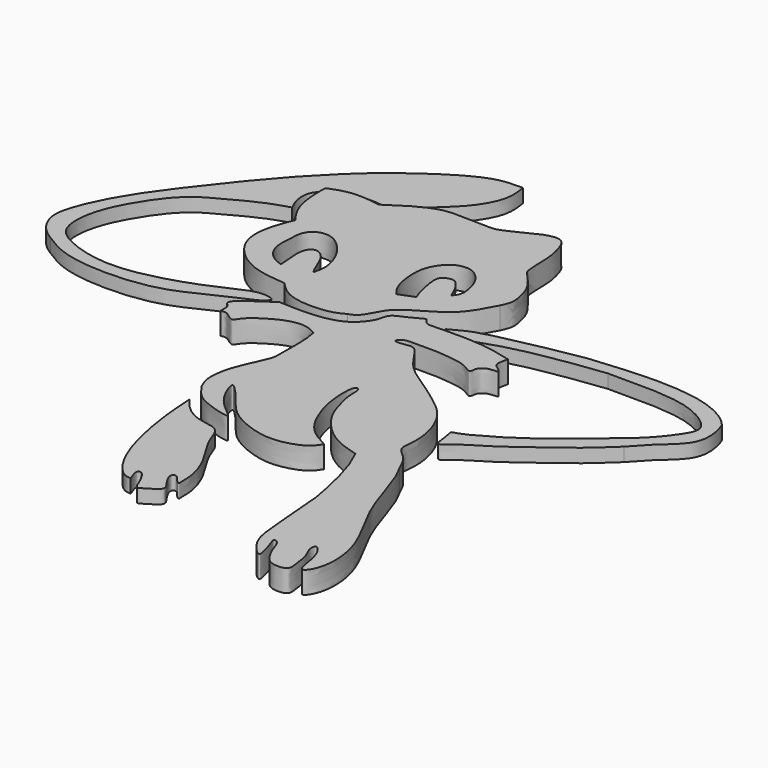
from build123d import *

# Parameters (mm, degrees)
F1_DEPTH = 5.334
F2_DEPTH = 3.302


with BuildPart() as f1:
    # F0 (on Top) → F1 (new body)
    with BuildSketch(Plane.XY):
        with BuildLine():
            add(Edge.make_bspline(
                [(-36.8846021593, 36.0807068646), (-37.3919205691, 36.745355779), (-38.573167318, 38.2929329101), (-40.5014475338, 42.4143572996), (-40.7107590613, 48.2182279222), (-40.6138391704, 49.4369952817), (-40.5808985233, 49.8512238264)],
                knots=[0, 0, 0, 0, 0.2194056509, 0.5108669562, 0.8337559114, 1, 1, 1, 1], degree=3))
            add(Edge.make_bspline(
                [(-22.3644245416, 14.6438442171), (-24.6713467296, 14.8439032159), (-29.1783533156, 15.2347561151), (-34.882181479, 17.9727219406), (-39.1312315637, 23.0647945356), (-39.4935763136, 28.8302862551), (-37.8267011281, 33.815991482), (-37.1553457104, 35.4298653868), (-36.8846021593, 36.0807068646)],
                knots=[0, 0, 0, 0, 0.1893684443, 0.3699668893, 0.5515158216, 0.7238806595, 0.8886468645, 1, 1, 1, 1], degree=3))
            add(Edge.make_bspline(
                [(-5.2082133479, 12.2014991939), (-6.1207744444, 11.7172463933), (-8.3286563669, 10.545628396), (-15.353587418, 10.2966075507), (-19.699613734, 11.8971410348), (-21.5102479887, 13.7634179409), (-22.3644245416, 14.6438442171)],
                knots=[0, 0, 0, 0, 0.2165971456, 0.5240426358, 0.775464526, 1, 1, 1, 1], degree=3))
            add(Edge.make_bspline(
                [(15.1303568855, 32.9696908593), (14.5352451306, 31.8316959723), (13.2486953483, 29.3715075085), (10.2455123386, 24.8910940387), (3.5467707647, 21.2909451139), (-0.1632139181, 18.6569829706), (-1.6228436975, 15.6766034686), (-3.1877963332, 12.9531999529), (-4.5795045255, 12.4354117454), (-5.2082133479, 12.2014991939)],
                knots=[0, 0, 0, 0, 0.1407144931, 0.3042053849, 0.4994170574, 0.6491627195, 0.7763538673, 0.8989671128, 1, 1, 1, 1], degree=3))
            add(Edge.make_bspline(
                [(-28.5498145968, 50.8658960462), (-27.3946017427, 51.6630685406), (-24.9466228795, 53.3523342114), (-20.0833499164, 56.0652919109), (-16.3542778469, 56.9634408184), (-12.2867311767, 56.8716252918), (-6.9153223537, 56.7342359886), (-4.3946916269, 56.665054576), (1.0627636823, 59.6982249817), (4.5886739884, 61.236413898), (8.2470343675, 61.4891197316), (9.8575595266, 56.0097175618), (10.1904654801, 52.4142595185), (10.0843781414, 47.0754303269), (11.5893851176, 45.8127835913), (14.8613176101, 41.8496715208), (15.5576528197, 39.0147495294), (16.4135900587, 35.7580508966), (15.5545549064, 33.8914382347), (15.1303568855, 32.9696908593)],
                knots=[0, 0, 0, 0, 0.0621112649, 0.1316182234, 0.188871196, 0.2491962953, 0.3167553376, 0.3643401957, 0.436758445, 0.4967888689, 0.546791506, 0.6123099758, 0.6728165948, 0.7378250462, 0.7790399568, 0.8445049968, 0.8965058511, 0.9488938107, 1, 1, 1, 1], degree=3))
            add(Edge.make_bspline(
                [(-40.5808985233, 49.8512238264), (-39.7577733728, 50.1889108848), (-38.0437485114, 50.8920895121), (-34.9342862767, 51.5058179945), (-31.3792002355, 51.3783823788), (-29.458277106, 51.0304457679), (-28.5498145968, 50.8658960462)],
                knots=[0, 0, 0, 0, 0.234957575, 0.4892611102, 0.7584561682, 1, 1, 1, 1], degree=3))
        make_face()
        with BuildLine():
            add(Edge.make_bspline(
                [(-27.7441535145, 20.2597975731), (-27.836523165, 21.3377254697), (-28.0205851584, 23.4856772729), (-28.2064858053, 26.7533419634), (-27.3095138698, 28.5803581568), (-25.8242693753, 29.158776732), (-23.9397520395, 27.8647529376), (-22.7818146955, 25.7716562911), (-21.7167721967, 22.9536226595), (-21.1669852724, 21.9621876443), (-20.9360662848, 21.5457696468)],
                knots=[0, 0, 0, 0, 0.1498442019, 0.2985896596, 0.4110847443, 0.5056814579, 0.6233821967, 0.7537217582, 0.89655934, 1, 1, 1, 1], degree=3))
            add(Edge.make_bspline(
                [(-20.9360662848, 21.5457696468), (-20.6845803928, 22.4517973521), (-20.1286034759, 24.4548142458), (-21.2599441765, 28.7542103146), (-23.5058865444, 32.3709839432), (-26.9334066004, 35.3160516517), (-30.5123126311, 35.2735079139), (-32.7990191763, 33.0795235548), (-32.9444978647, 29.4825750713), (-33.2245472294, 25.7467879432), (-31.8503260445, 22.5933797005), (-29.5656235756, 20.8892744088), (-28.312173584, 20.4560980688), (-27.7441535145, 20.2597975731)],
                knots=[0, 0, 0, 0, 0.0851228406, 0.1881868366, 0.292340602, 0.3959368999, 0.4853122137, 0.5684365665, 0.6615536453, 0.7584972412, 0.8490847261, 0.9316104312, 1, 1, 1, 1], degree=3))
        make_face(mode=Mode.SUBTRACT)
        with BuildLine():
            add(Edge.make_bspline(
                [(5.4089953192, 30.3651615977), (4.9974793972, 31.3635089709), (4.2164206085, 33.2583760916), (2.492858238, 35.4574563274), (1.1828097347, 35.7536675932), (-1.0889632523, 34.9032052933), (-1.0761434624, 32.5663825666), (-0.7105408655, 30.3909840554), (-0.0619549295, 27.5454399373), (0.4242136144, 26.3185378529), (0.6415589014, 25.7700420916)],
                knots=[0, 0, 0, 0, 0.1500445323, 0.2847850944, 0.377641595, 0.497182947, 0.616278328, 0.7433829902, 0.8852774448, 1, 1, 1, 1], degree=3))
            Line((0.6415589014, 25.7700420916), (-3.0919760466, 24.3340656161))
            add(Edge.make_bspline(
                [(-3.0919760466, 24.3340656161), (-3.6746172439, 25.0952157056), (-4.9790959932, 26.7993590469), (-5.9269204187, 31.3877090281), (-5.8129309399, 36.1864843136), (-3.2806174064, 39.831657957), (-1.0494876922, 41.0503171402), (2.1831388461, 41.2713590695), (5.273039036, 38.380179271), (6.3476776556, 34.9097936113), (6.6819460197, 32.0494739818), (5.8108081984, 30.8968227282), (5.4089953192, 30.3651615977)],
                knots=[0, 0, 0, 0, 0.0943242152, 0.2111830315, 0.3310976043, 0.4422336843, 0.5274260332, 0.6207101402, 0.729021317, 0.8337202238, 0.9233033465, 1, 1, 1, 1], degree=3))
        make_face(mode=Mode.SUBTRACT)
    extrude(amount=F1_DEPTH)


with BuildPart() as f1b:
    # F0 (on Top) → F1, piece 2 (new body)
    with BuildSketch(Plane.XY):
        with BuildLine():
            add(Edge.make_bspline(
                [(30.0683174282, 16.6960265487), (27.7743567444, 17.2982553033), (22.996366427, 18.5526112206), (14.1217566151, 18.5069548483), (10.9595550033, 18.4055071495), (8.914888562, 18.2892193751), (8.1286790312, 19.3965578852), (7.7262688428, 19.9633333832)],
                knots=[0, 0, 0, 0, 0.2687230853, 0.5597115543, 0.7341470669, 0.8639269499, 1, 1, 1, 1], degree=3))
            add(Edge.make_bspline(
                [(7.7262688428, 19.9633333832), (6.7843841918, 19.4219987594), (4.8626373132, 18.3175024471), (0.9491517041, 16.983214183), (0.9172062675, 14.0816922981), (-1.1563972414, 11.1645043961), (-4.2681909188, 8.7975654115), (-10.2481427233, 7.7101704983), (-15.7637806819, 7.8784264398), (-17.5742383687, 7.9638167156), (-18.2920843363, 7.9976739362)],
                knots=[0, 0, 0, 0, 0.1189762035, 0.2427496271, 0.3446266716, 0.463365679, 0.5892044553, 0.7483578638, 0.9002239632, 1, 1, 1, 1], degree=3))
            add(Edge.make_bspline(
                [(-18.2920843363, 7.9976739362), (-19.2081909322, 7.3508545619), (-21.220968544, 5.9297278487), (-26.2844384077, 2.5837754081), (-25.5818429798, 1.1641009834), (-24.788360107, 0.7943681377), (-24.7400624967, -0.7928668879), (-24.7462409395, -1.4706101124), (-24.7490536422, -1.7791490536)],
                knots=[0, 0, 0, 0, 0.2335516694, 0.5131363244, 0.6318283516, 0.7367278182, 0.8801467617, 1, 1, 1, 1], degree=3))
            add(Edge.make_bspline(
                [(-24.7490536422, -1.7791490536), (-24.2594300604, -1.6489843167), (-23.1371940302, -1.3506417469), (-20.7418558435, -3.9319628807), (-19.8396284785, -1.3153314822), (-15.2791573927, 1.747858691), (-12.0049756273, 3.1979621252), (-8.2035408147, 3.7607412239), (-6.3214470372, 2.7044753683), (-5.4122591391, 2.1942222957)],
                knots=[0, 0, 0, 0, 0.1027998361, 0.2356211674, 0.3469371625, 0.5398555958, 0.7001501422, 0.8551507554, 1, 1, 1, 1], degree=3))
            add(Edge.make_bspline(
                [(-5.4122591391, -11.4604206756), (-5.2622117063, -11.0833952824), (-4.8483954868, -10.0435959346), (-4.8531432648, -5.796717989), (-4.8905091249, -0.455510217), (-5.2613557919, 1.4278523975), (-5.4122591391, 2.1942222957)],
                knots=[0, 0, 0, 0, 0.16298087, 0.4494853805, 0.7759869344, 1, 1, 1, 1], degree=3))
            add(Edge.make_bspline(
                [(-5.4122591391, -11.4604206756), (-5.7180365241, -12.1910633261), (-6.4589745929, -13.9615047682), (-8.7341618296, -18.823732403), (-9.3339817846, -22.6702412315), (-9.3862087635, -25.4827799286), (-8.6161951623, -27.2256408895), (-8.2267019898, -28.1072258949)],
                knots=[0, 0, 0, 0, 0.1760181488, 0.4265146922, 0.6415927054, 0.8187081449, 1, 1, 1, 1], degree=3))
            add(Edge.make_bspline(
                [(-8.2267019898, -28.1072258949), (-7.6234509095, -28.9847780463), (-6.3158368471, -30.886970303), (-3.3578440432, -33.0385452557), (4.7605685311, -35.3009211391), (0.7062696421, -32.348079143), (-2.6369370543, -28.938166705), (-4.7745965374, -23.008879984), (-2.1692361288, -25.4214104232), (0.0596427785, -28.1204059957), (3.5703763797, -32.828689266), (9.4441591128, -35.6788887604), (15.6783436568, -37.2193911759), (22.840726257, -35.0789922839), (24.1300062291, -32.9878270093), (24.6503651142, -32.1438238025)],
                knots=[0, 0, 0, 0, 0.0644771481, 0.1397614166, 0.2278212025, 0.2838940026, 0.3731896446, 0.4478304981, 0.4963143315, 0.5679076052, 0.6548180235, 0.7466462144, 0.8393730298, 0.9351702711, 1, 1, 1, 1], degree=3))
            add(Edge.make_bspline(
                [(24.6503651142, -32.1438238025), (22.7874017729, -31.1547850766), (18.978892069, -29.1328646762), (15.7565133464, -22.5588668197), (14.3110475227, -17.0219112758), (14.2258983476, -9.955668629), (16.1051306441, -10.5144580218), (15.6702473707, -13.747750159), (17.0855807883, -18.568062254), (18.3355817835, -22.1596484216), (21.6146077655, -26.502386498), (26.1560860605, -29.9186464967), (29.8500456849, -30.9730548373), (31.7023843527, -31.501788646)],
                knots=[0, 0, 0, 0, 0.1044502141, 0.213530586, 0.3203453584, 0.4213187613, 0.4580269744, 0.5290816996, 0.6236498562, 0.7054940824, 0.8011178875, 0.9002704239, 1, 1, 1, 1], degree=3))
            add(Edge.make_bspline(
                [(31.7023843527, -31.501788646), (32.4317515175, -33.0339186757), (34.0418847304, -36.4162116639), (35.891222752, -44.0199699231), (36.7066142268, -48.1595329342), (36.9354538826, -49.5206387254), (37.0256751776, -50.0572621822)],
                knots=[0, 0, 0, 0, 0.2736015544, 0.6039961368, 0.8438732953, 1, 1, 1, 1], degree=3))
            add(Edge.make_bspline(
                [(37.0256751776, -50.0572621822), (37.2529570378, -52.2585996466), (37.7295250837, -56.874397374), (38.1744288141, -65.147375762), (39.0614282703, -71.473936135), (43.7073747885, -75.9926535392), (43.0041439625, -73.1870722683), (42.5863736095, -71.2442159702), (41.2192631142, -68.0900104475), (43.2122596535, -69.062811459), (43.8660534195, -72.1091856839), (46.0001837404, -75.8667367907), (48.2415322815, -76.7510536361), (51.5666329574, -76.464046498), (51.0718324014, -73.597450229), (50.7537782092, -69.9651897279), (49.0133489818, -67.3461961901), (49.5300726584, -65.1991280143), (51.3610203699, -67.2721869465), (52.3453968623, -70.4529473283), (52.995619021, -76.2204950553), (56.059449066, -71.996615036), (56.1941191956, -64.2541648711), (53.057015864, -56.2370554706), (47.5422537848, -47.2864849217), (44.2428025956, -35.181683009), (42.4634124655, -31.9627538165), (41.779063642, -30.7247620076)],
                knots=[0, 0, 0, 0, 0.0515181447, 0.1080240258, 0.1600193281, 0.200966199, 0.2242692528, 0.2561913518, 0.2869292175, 0.3071601688, 0.3426397052, 0.3829711635, 0.4133879878, 0.44506026, 0.4747807776, 0.5132716918, 0.5483859123, 0.5705941331, 0.5969574393, 0.6366393869, 0.6760617143, 0.7097084145, 0.7649651301, 0.8224062602, 0.8873011559, 0.9566563172, 1, 1, 1, 1], degree=3))
            add(Edge.make_bspline(
                [(41.779063642, -30.7247620076), (41.220519955, -29.4131194944), (40.1405083976, -26.8769005623), (36.3496730282, -24.6391556022), (37.9091307315, -19.6176807334), (35.5635143336, -10.6479929739), (30.5388392719, -5.8669855098), (23.9637593307, -1.3236326178), (17.1210038146, 2.9501551711), (13.8645399549, 9.8095100123), (11.3218741684, 9.2331700055), (8.0189997491, 8.9048258219), (9.6884536448, 10.9398859033), (12.9400373278, 10.6519892488), (17.7385160156, 10.8919830294), (21.7909115084, 10.3524706804), (25.1173197763, 9.8387273821), (27.8544362389, 7.7039501469), (27.5140398783, 10.0552824679), (29.4509197324, 11.6524955754), (32.6539040013, 11.3234634506), (30.9452406108, 12.542717614), (30.0683174282, 13.1684653461)],
                knots=[0, 0, 0, 0, 0.0519267935, 0.1004067156, 0.1547860225, 0.2308120849, 0.2975658467, 0.3688932812, 0.4426002883, 0.5078563984, 0.5467057553, 0.5855180915, 0.6152135834, 0.6611250141, 0.7174470552, 0.7689076739, 0.8172224822, 0.8564603738, 0.8862383123, 0.9262880687, 0.962169435, 1, 1, 1, 1], degree=3))
            add(Edge.make_bspline(
                [(30.0683174282, 13.1684653461), (29.9041852058, 13.3684306238), (29.4381629957, 13.9361939752), (29.8205842702, 15.6110511778), (30.0683174282, 16.6960265487)],
                knots=[0, 0, 0, 0, 0.3521982834, 1, 1, 1, 1], degree=3))
        make_face()
    extrude(amount=F1_DEPTH)


with BuildPart() as f2:
    # F0 (on Top) → F2 (new body)
    with BuildSketch(Plane.XY):
        with BuildLine():
            add(Edge.make_bspline(
                [(-43.0377721786, 42.7853837609), (-43.4217519294, 43.5555106027), (-44.2704707094, 45.2577386818), (-44.7495303082, 49.6843935754), (-41.0137641329, 52.7815034964), (-36.6859509281, 54.4525017318), (-31.3441059726, 54.4142323895), (-29.2217337248, 54.0177284331), (-28.3044036478, 53.8463518023)],
                knots=[0, 0, 0, 0, 0.1383428068, 0.3057821096, 0.4812834692, 0.6632360629, 0.8544441539, 1, 1, 1, 1], degree=3))
            add(Edge.make_bspline(
                [(-28.3044036478, 53.8463518023), (-26.4073160355, 55.6555092544), (-22.6771829073, 59.2127504184), (-17.2353435255, 63.8393788129), (-13.8276032853, 69.6509731284), (-13.5447997553, 73.3805690433), (-13.8346112059, 75.3733824514), (-13.9714321122, 76.3141959906)],
                knots=[0, 0, 0, 0, 0.2399087284, 0.471718591, 0.6909669262, 0.8541045044, 1, 1, 1, 1], degree=3))
            add(Edge.make_bspline(
                [(-13.9714321122, 76.3141959906), (-15.6695767931, 76.3303285057), (-19.2883266624, 76.3647069291), (-25.3938334761, 73.7499379423), (-32.2227465198, 69.3257394868), (-37.0027510136, 65.6788461869), (-41.5089383745, 61.9702597728), (-43.2950078592, 60.2558688539), (-44.0782904625, 59.5040209591)],
                knots=[0, 0, 0, 0, 0.1571726677, 0.3349352838, 0.5326783847, 0.7051580212, 0.870696748, 1, 1, 1, 1], degree=3))
            add(Edge.make_bspline(
                [(-44.0782904625, 59.5040209591), (-46.5278412391, 57.082066591), (-52.097162839, 51.575488444), (-63.3309865981, 37.4942248425), (-71.4221468374, 26.4624379543), (-75.7339498561, 17.0106297705), (-76.6395144361, 11.8788318896), (-75.1074330935, 8.3160305556), (-73.204783322, 6.068043111), (-71.7088671371, 5.0905988199), (-70.9798410535, 4.6142470092)],
                knots=[0, 0, 0, 0, 0.1518529739, 0.3452543444, 0.517129726, 0.6613859031, 0.7623466126, 0.8489157512, 0.9263699669, 1, 1, 1, 1], degree=3))
            add(Edge.make_bspline(
                [(-70.9798410535, 4.6142470092), (-69.3666307118, 3.5770845145), (-65.6901376032, 1.2133997143), (-55.8893542983, -0.5183749), (-41.2432784113, 0.4464145968), (-31.0706871572, 6.483604405), (-24.0806480786, 8.8396956503), (-21.752412637, 11.3394508322), (-26.5347743619, 12.1529097756), (-32.3033005496, 9.1331545972), (-40.0565385081, 5.9205974959), (-50.0430210503, 3.1697487317), (-58.8129954214, 2.9178477888), (-66.9351159188, 5.4707126725), (-72.0186295298, 9.156570048), (-71.6690554507, 18.4329778003), (-66.5327096092, 27.8683616368), (-61.2862876559, 34.4220241119), (-54.7268271319, 37.7283730842), (-48.6744931046, 41.0395084453), (-44.8645902562, 42.2195589437), (-43.0377721786, 42.7853837609)],
                knots=[0, 0, 0, 0, 0.0465524502, 0.1060926513, 0.1790243597, 0.2452061951, 0.2968084881, 0.3232171179, 0.357646466, 0.4069920351, 0.4626730308, 0.5238603294, 0.5805035455, 0.6354123547, 0.6802029703, 0.7351769542, 0.7981924539, 0.8529702112, 0.9040331392, 0.9539846544, 1, 1, 1, 1], degree=3))
        make_face()
    extrude(amount=F2_DEPTH)


with BuildPart() as f2b:
    # F0 (on Top) → F2, piece 2 (new body)
    with BuildSketch(Plane.XY):
        with BuildLine():
            add(Edge.make_bspline(
                [(2.3568598554, -62.7967566252), (1.849591697, -62.7900183143), (0.4679465245, -62.7716651917), (-3.2310828631, -58.8113433278), (-6.7057614708, -50.0665204215), (-8.6370836456, -38.8411168477), (-8.9614558541, -33.2628901217), (-9.1090472415, -30.7247620076)],
                knots=[0, 0, 0, 0, 0.099509161, 0.2710328838, 0.51388907, 0.7788164808, 1, 1, 1, 1], degree=3))
            add(Edge.make_bspline(
                [(-9.1090472415, -30.7247620076), (-8.4235955574, -31.6189211927), (-6.9475052353, -33.5444540203), (-3.101528472, -36.1875069597), (1.8982272323, -36.366099626), (3.4405558722, -38.6877901024), (4.4761606927, -42.3593420867), (7.8964967826, -47.1650437774), (10.103858215, -52.0425869753), (10.7860608645, -55.6476684863), (10.6753618785, -57.5461375395), (10.9225050319, -59.3049638311), (9.4107167153, -57.6424469164), (8.5616404275, -56.4503239427), (7.5237963592, -56.8148042208), (7.6117730332, -58.1583165289), (8.9359028975, -60.1929547878), (10.1219675513, -61.7535687362), (9.4773292634, -62.9623853428), (7.0627564007, -64.3325582518), (5.4694748144, -65.4986569004), (4.5573424059, -62.78355908), (3.3761804254, -60.4551449839), (2.1377112045, -59.3756823228), (1.4345728768, -60.1256467658), (1.8841051195, -61.4401596052), (2.1958233582, -62.3346530955), (2.3568598554, -62.7967566252)],
                knots=[0, 0, 0, 0, 0.0496809561, 0.1069857733, 0.1646060762, 0.2058387605, 0.2571628324, 0.3222353289, 0.3845712685, 0.4346179158, 0.4726711954, 0.4992092936, 0.5325676268, 0.5654673868, 0.5880449987, 0.6160765379, 0.6586074123, 0.6943476006, 0.72222254, 0.7675356615, 0.7994953394, 0.8396297218, 0.8851573032, 0.9154600181, 0.9370908196, 0.9675005412, 1, 1, 1, 1], degree=3))
        make_face()
    extrude(amount=F2_DEPTH)


with BuildPart() as f2c:
    # F0 (on Top) → F2, piece 3 (new body)
    with BuildSketch(Plane.XY):
        with BuildLine():
            add(Edge.make_bspline(
                [(10.7216527686, 22.0162756741), (12.1246687267, 22.8148610446), (15.339687331, 24.6448237106), (23.6197362006, 26.4763189676), (32.72292454, 28.3516074967), (37.0192507628, 29.0816873989), (38.9400422573, 29.4080898166)],
                knots=[0, 0, 0, 0, 0.210423914, 0.4821875291, 0.7684976098, 1, 1, 1, 1], degree=3))
            add(Edge.make_bspline(
                [(10.7216527686, 22.0162756741), (11.0952281861, 21.6401005628), (11.9676852339, 20.7615721278), (15.1851161792, 20.2060896425), (20.1867499974, 22.1900920896), (27.3159099422, 24.2389696372), (36.615664636, 25.8884813304), (42.8756191809, 26.6520064029), (46.0081286728, 27.0340777934)],
                knots=[0, 0, 0, 0, 0.0904593315, 0.2112609063, 0.3729533578, 0.5659140772, 0.7827814461, 1, 1, 1, 1], degree=3))
            add(Edge.make_bspline(
                [(46.0081286728, 27.0340777934), (48.7258841079, 27.0612678355), (54.4256706903, 27.1182918912), (64.5466285691, 26.6819854244), (71.2784960569, 23.5683344076), (74.4956568823, 20.0928312055), (72.370302212, 16.1583995878), (68.2328509473, 10.8727360954), (63.0282482519, 6.6939099868), (60.288196872, 4.4211072069), (59.0115785599, 3.3621848561)],
                knots=[0, 0, 0, 0, 0.1437483771, 0.3014749084, 0.4359008913, 0.5332154076, 0.6294905174, 0.7592457502, 0.8878301019, 1, 1, 1, 1], degree=3))
            add(Edge.make_bspline(
                [(59.0115785599, 3.3621848561), (56.9423383347, 1.6375621217), (52.775286197, -1.8354966196), (46.5278179073, -6.1349616625), (39.331175356, -10.0891007633), (37.5946538004, -10.0778540145), (38.361869053, -11.9948167923), (38.4145231293, -16.8707660308), (41.9490027911, -13.083803004), (47.7757044759, -10.0981764978), (54.0702257822, -5.0810900312), (60.5319653238, -0.5910086566), (64.8441388463, 3.4273348996), (67.067630589, 5.4993187077)],
                knots=[0, 0, 0, 0, 0.1094389502, 0.2203890133, 0.3295663194, 0.369726266, 0.4213415268, 0.4936271411, 0.5627007536, 0.6656686645, 0.7754420094, 0.884210866, 1, 1, 1, 1], degree=3))
            add(Edge.make_bspline(
                [(67.067630589, 5.4993187077), (68.4073962182, 7.0026565142), (71.2661439341, 10.3161375403), (78.3602736598, 15.59597471), (76.7631828785, 22.33495377), (75.9328380227, 24.1133533418)],
                knots=[0, 0, 0, 0, 0.3098887474, 0.6604961476, 1, 1, 1, 1], degree=3))
            add(Edge.make_bspline(
                [(38.9400422573, 29.4080898166), (42.1234440462, 29.7199891996), (48.5724313187, 30.3518400576), (58.6475201749, 30.6661036157), (67.9584350083, 29.3917039016), (73.8641097497, 26.3531807622), (75.3402605954, 24.7549413105), (75.9328380227, 24.1133533418)],
                knots=[0, 0, 0, 0, 0.2286564396, 0.4632159453, 0.6902384315, 0.8756511139, 1, 1, 1, 1], degree=3))
        make_face()
    extrude(amount=F2_DEPTH)


solid = Compound([f1.part, f1b.part, f2.part, f2b.part, f2c.part])
